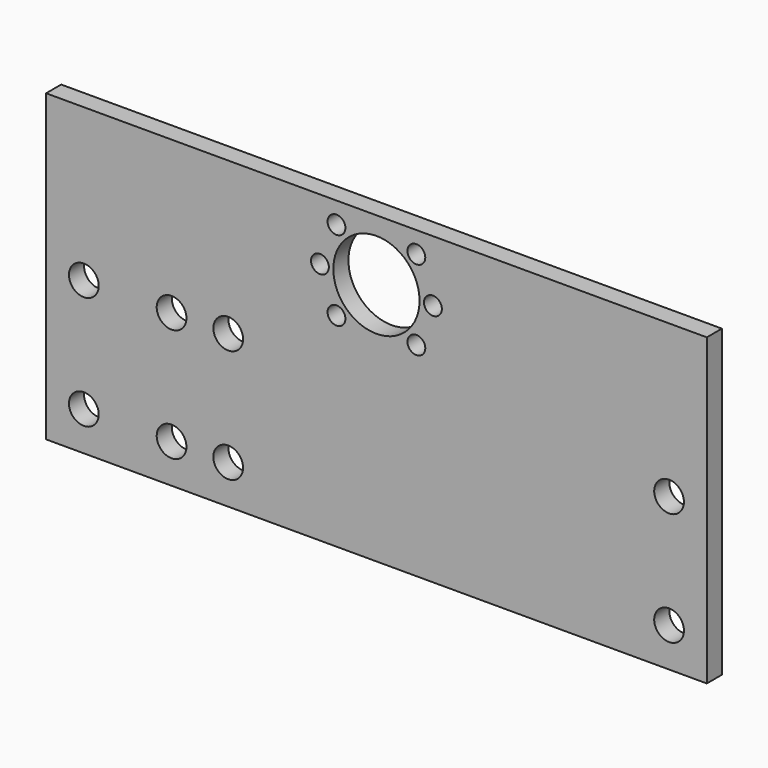
from build123d import *

# Parameters (mm, degrees)
F0_W     = 222.25
F0_H     = 102.5
F0_R     = 5
F0_R_2   = 3
F0_R_3   = 14.5
F1_DEPTH = 6.35


with BuildPart() as f1:
    # F0 (on Front) → F1 (new body)
    with BuildSketch(Plane.XZ):
        with Locations((3.816493, 9.441472)):
            Rectangle(F0_W, F0_H)
        with Locations((-94.608507, -28.680028)):
            Circle(F0_R, mode=Mode.SUBTRACT)
        with Locations((-65.095007, -28.680028)):
            Circle(F0_R, mode=Mode.SUBTRACT)
        with Locations((-46.044987, -28.680028)):
            Circle(F0_R, mode=Mode.SUBTRACT)
        with Locations((-94.608507, 9.419972)):
            Circle(F0_R, mode=Mode.SUBTRACT)
        with Locations((-65.095007, 9.419972)):
            Circle(F0_R, mode=Mode.SUBTRACT)
        with Locations((-46.044987, 9.419972)):
            Circle(F0_R, mode=Mode.SUBTRACT)
        with Locations((102.241493, -28.680028)):
            Circle(F0_R, mode=Mode.SUBTRACT)
        with Locations((102.241493, 9.419972)):
            Circle(F0_R, mode=Mode.SUBTRACT)
        with Locations((-9.625536, 26.656443)):
            Circle(F0_R_2, mode=Mode.SUBTRACT)
        with Locations((-15.190507, 40.091472)):
            Circle(F0_R_2, mode=Mode.SUBTRACT)
        with Locations((3.809493, 40.091472)):
            Circle(F0_R_3, mode=Mode.SUBTRACT)
        with Locations((-9.625536, 53.526501)):
            Circle(F0_R_2, mode=Mode.SUBTRACT)
        with Locations((17.244521, 26.656443)):
            Circle(F0_R_2, mode=Mode.SUBTRACT)
        with Locations((22.809493, 40.091472)):
            Circle(F0_R_2, mode=Mode.SUBTRACT)
        with Locations((17.244521, 53.526501)):
            Circle(F0_R_2, mode=Mode.SUBTRACT)
    extrude(amount=F1_DEPTH)


solid = f1.part
